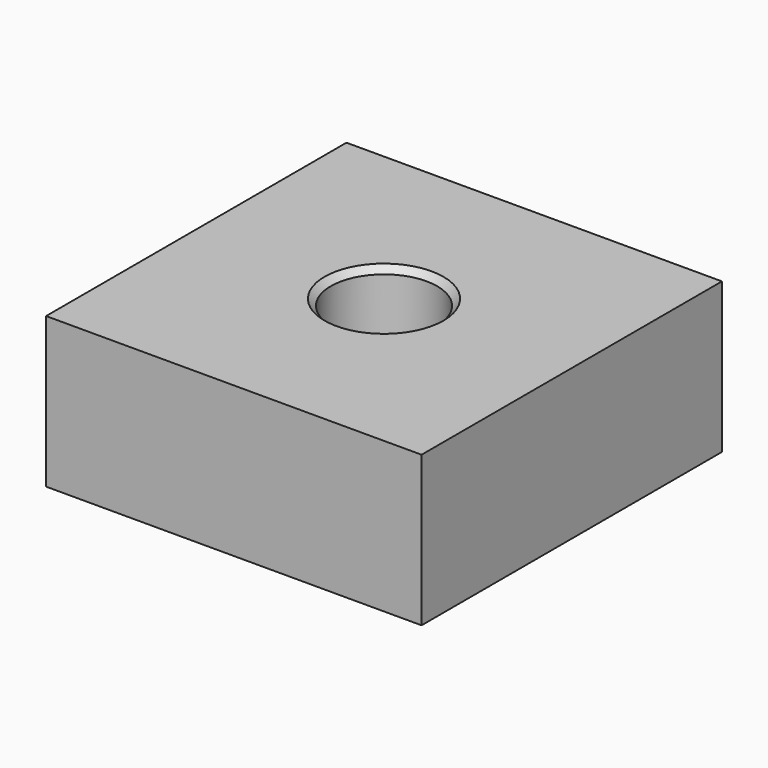
from build123d import *

# Parameters (mm, degrees)
F0_W     = 30
F0_H     = 30
F0_R     = 4.25
F1_DEPTH = 12
F2_SIZE  = 0.5


with BuildPart() as f1:
    # F0 (on Top) → F1 (new body)
    with BuildSketch(Plane.XY):
        Rectangle(F0_W, F0_H)
        Circle(F0_R, mode=Mode.SUBTRACT)
    extrude(amount=F1_DEPTH)

    # F2
    f2_edges = [f1.edges().sort_by_distance(p)[0] for p in [
        (4.25, 0, 6),
        (-4.25, 0, 0),
        (-4.25, 0, 12),
    ]]
    chamfer(f2_edges, length=F2_SIZE)


solid = f1.part
